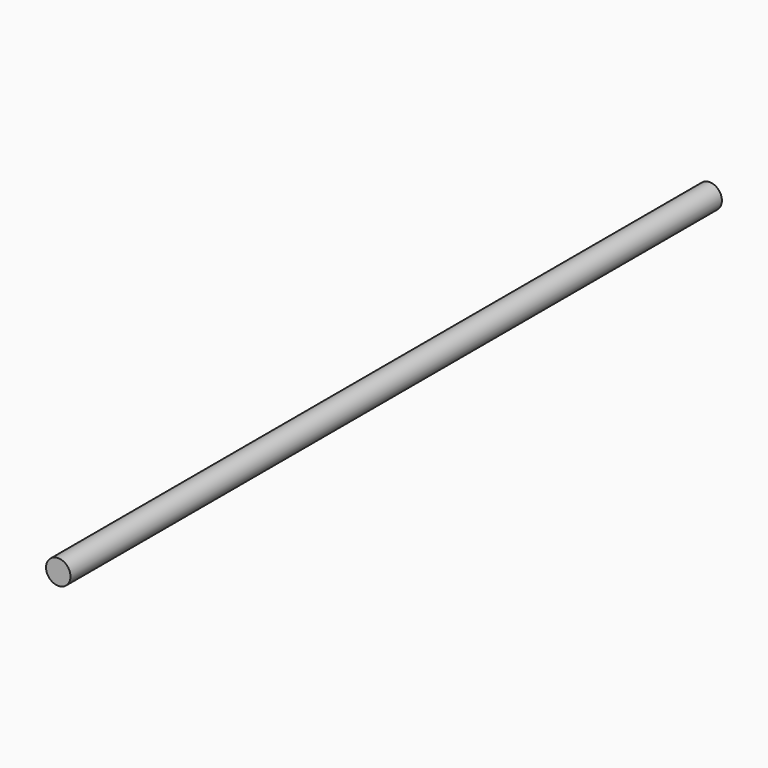
from build123d import *

# Parameters (mm, degrees)
F0_R      = 1.905
F1_DEPTH  = 101.6
F1_FACE_R = 1.905
F2_DEPTH  = 25.4


with BuildPart() as f1:
    # F0 (on Front) → F1 (new body)
    with BuildSketch(Plane.XZ):
        Circle(F0_R)
    extrude(amount=F1_DEPTH)

    # F1_face (on face) → F2 (join)
    with BuildSketch(Plane(origin=(0, 0, 0), x_dir=(1, 0, 0), z_dir=(0, 1, 0))):
        Circle(F1_FACE_R)
    extrude(amount=F2_DEPTH)


solid = f1.part
